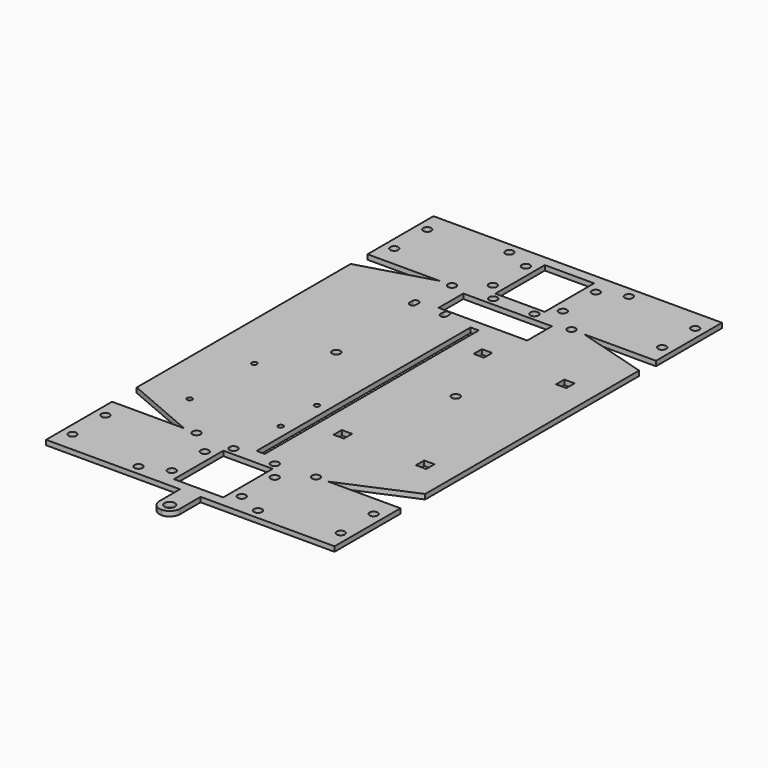
from build123d import *

# Parameters (mm, degrees)
F0_R     = 2.50063
F0_R_2   = 1.5875
F0_R_3   = 3.175
F0_W     = 30.40126
F0_H     = 38.1
F0_W_2   = 6.35
F0_H_2   = 6.35
F0_W_3   = 5
F0_H_3   = 164.866201
F0_W_4   = 54.61
F0_H_4   = 19.05
F1_DEPTH = 3


with BuildPart() as f1:
    # F0 (on Top) → F1 (new body)
    with BuildSketch(Plane.XY):
        with BuildLine():
            Line((44.45, 89.174706), (88.9, 89.174706))
            Line((88.9, 89.174706), (88.9, 139.974706))
            Line((88.9, 139.974706), (-88.9, 139.974706))
            Line((-88.9, 139.974706), (-88.9, 89.174706))
            Line((-88.9, 89.174706), (-44.45, 89.174706))
            Line((-44.45, 89.174706), (-88.9, 76.2))
            Line((-88.9, 76.2), (-88.9, -88.632697))
            Line((-88.9, -88.632697), (-44.45, -107.682697))
            Line((-44.45, -107.682697), (-88.9, -107.682697))
            Line((-88.9, -107.682697), (-88.9, -158.482697))
            Line((-88.9, -158.482697), (-6.35, -158.482697))
            Line((-6.35, -158.482697), (-6.35, -174.357697))
            ThreePointArc((-6.35, -174.357697), (-4.490128, -178.847825), (0, -180.707697))
            ThreePointArc((0, -180.707697), (4.490128, -178.847825), (6.35, -174.357697))
            Line((6.35, -174.357697), (6.35, -158.482697))
            Line((6.35, -158.482697), (88.9, -158.482697))
            Line((88.9, -158.482697), (88.9, -107.682697))
            Line((88.9, -107.682697), (44.45, -107.682697))
            Line((44.45, -107.682697), (88.9, -88.632697))
            Line((88.9, -88.632697), (88.9, 66.949706))
            Line((88.9, 66.949706), (88.9, 76.2))
            Line((88.9, 76.2), (44.45, 89.174706))
        make_face()
        with Locations((-82.55, -146.05)):
            Circle(F0_R, mode=Mode.SUBTRACT)
        with Locations((-82.55, -120.65)):
            Circle(F0_R, mode=Mode.SUBTRACT)
        with Locations((-36.805, -152.403702)):
            Circle(F0_R, mode=Mode.SUBTRACT)
        with Locations((-21.55063, -145.782697)):
            Circle(F0_R, mode=Mode.SUBTRACT)
        with Locations((-36.805, -107.682697)):
            Circle(F0_R, mode=Mode.SUBTRACT)
        with Locations((-21.55063, -120.382697)):
            Circle(F0_R, mode=Mode.SUBTRACT)
        with Locations((-12.7, -109.266495)):
            Circle(F0_R, mode=Mode.SUBTRACT)
        with Locations((-61.595, -82.020102)):
            Circle(F0_R_2, mode=Mode.SUBTRACT)
        with Locations((-60.325, -33.760102)):
            Circle(F0_R_2, mode=Mode.SUBTRACT)
        with Locations((-9.525, -76.940102)):
            Circle(F0_R_2, mode=Mode.SUBTRACT)
        with Locations((-9.525, -49.000102)):
            Circle(F0_R_2, mode=Mode.SUBTRACT)
        with Locations((0, -174.357697)):
            Circle(F0_R_3, mode=Mode.SUBTRACT)
        with Locations((21.55063, -145.782697)):
            Circle(F0_R, mode=Mode.SUBTRACT)
        with Locations((36.805, -152.403702)):
            Circle(F0_R, mode=Mode.SUBTRACT)
        with Locations((0, -133.078995)):
            Rectangle(F0_W, F0_H, mode=Mode.SUBTRACT)
        with Locations((21.55063, -120.382697)):
            Circle(F0_R, mode=Mode.SUBTRACT)
        with Locations((12.7, -109.266495)):
            Circle(F0_R, mode=Mode.SUBTRACT)
        with Locations((36.805, -107.682697)):
            Circle(F0_R, mode=Mode.SUBTRACT)
        with Locations((82.55, -145.782697)):
            Circle(F0_R, mode=Mode.SUBTRACT)
        with Locations((82.55, -120.382697)):
            Circle(F0_R, mode=Mode.SUBTRACT)
        with Locations((19.05, -64.816495)):
            Rectangle(F0_W_2, F0_H_2, mode=Mode.SUBTRACT)
        with Locations((0, -21.833394)):
            Rectangle(F0_W_3, F0_H_3, mode=Mode.SUBTRACT)
        with Locations((69.85, -64.816495)):
            Rectangle(F0_W_2, F0_H_2, mode=Mode.SUBTRACT)
        with Locations((-36.805, 0)):
            Circle(F0_R, mode=Mode.SUBTRACT)
        with Locations((-82.55, 101.874706)):
            Circle(F0_R, mode=Mode.SUBTRACT)
        with Locations((-82.55, 127.274706)):
            Circle(F0_R, mode=Mode.SUBTRACT)
        with BuildLine():
            ThreePointArc((-41.671875, 64.644375), (-39.6875, 66.62875), (-37.703125, 64.644375))
            Line((-37.703125, 64.644375), (-37.703125, 62.612375))
            ThreePointArc((-37.703125, 62.612375), (-39.6875, 60.628), (-41.671875, 62.612375))
            Line((-41.671875, 62.612375), (-41.671875, 64.644375))
        make_face(mode=Mode.SUBTRACT)
        with Locations((-36.805, 89.174706)):
            Circle(F0_R, mode=Mode.SUBTRACT)
        with BuildLine():
            Line((-22.621875, 62.612375), (-22.621875, 64.644375))
            ThreePointArc((-22.621875, 64.644375), (-20.6375, 66.62875), (-18.653125, 64.644375))
            Line((-18.653125, 64.644375), (-18.653125, 62.612375))
            ThreePointArc((-18.653125, 62.612375), (-20.6375, 60.628), (-22.621875, 62.612375))
        make_face(mode=Mode.SUBTRACT)
        with Locations((-12.7, 90.762206)):
            Circle(F0_R, mode=Mode.SUBTRACT)
        with Locations((-36.805, 133.353702)):
            Circle(F0_R, mode=Mode.SUBTRACT)
        with Locations((-21.55063, 101.603702)):
            Circle(F0_R, mode=Mode.SUBTRACT)
        with Locations((-21.55063, 127.003702)):
            Circle(F0_R, mode=Mode.SUBTRACT)
        with Locations((36.805, 0)):
            Circle(F0_R, mode=Mode.SUBTRACT)
        with Locations((19.05, 43.133505)):
            Rectangle(F0_W_2, F0_H_2, mode=Mode.SUBTRACT)
        with Locations((69.85, 43.133505)):
            Rectangle(F0_W_2, F0_H_2, mode=Mode.SUBTRACT)
        with Locations((0, 76.474706)):
            Rectangle(F0_W_4, F0_H_4, mode=Mode.SUBTRACT)
        with Locations((12.7, 90.762206)):
            Circle(F0_R, mode=Mode.SUBTRACT)
        with Locations((36.805, 89.174706)):
            Circle(F0_R, mode=Mode.SUBTRACT)
        with Locations((0, 114.574706)):
            Rectangle(F0_W, F0_H, mode=Mode.SUBTRACT)
        with Locations((21.55063, 101.603702)):
            Circle(F0_R, mode=Mode.SUBTRACT)
        with Locations((21.55063, 127.003702)):
            Circle(F0_R, mode=Mode.SUBTRACT)
        with Locations((36.805, 133.353702)):
            Circle(F0_R, mode=Mode.SUBTRACT)
        with Locations((82.55, 101.874706)):
            Circle(F0_R, mode=Mode.SUBTRACT)
        with Locations((82.55, 127.274706)):
            Circle(F0_R, mode=Mode.SUBTRACT)
    extrude(amount=F1_DEPTH)


solid = f1.part
